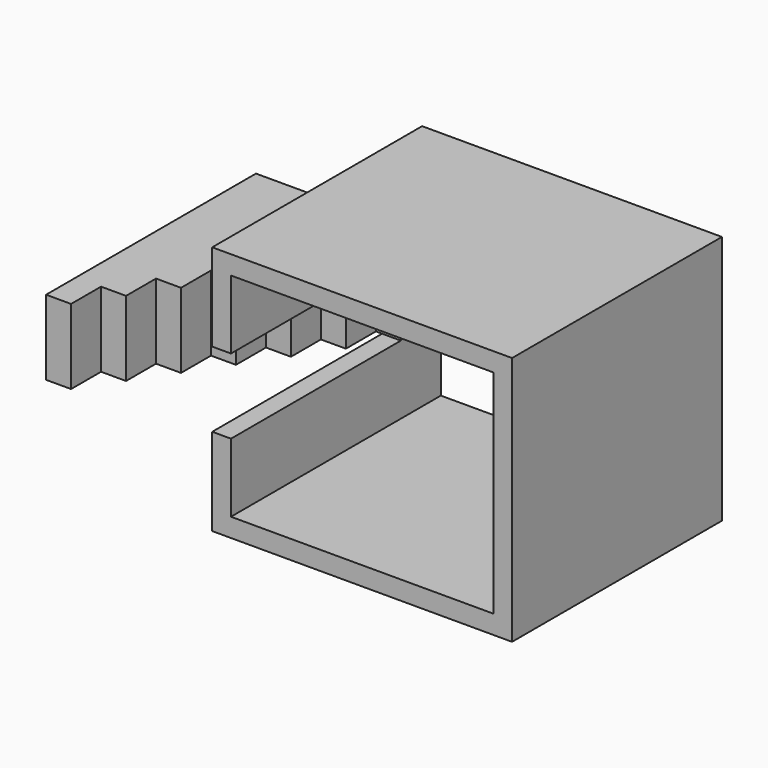
from build123d import *

# Parameters (mm, degrees)
F1_DEPTH = 200
F2_DEPTH = 10
F3_DEPTH = 30
F0_W     = 20
F0_H     = 60
F4_DEPTH = 60
F5_DEPTH = 90
F6_DEPTH = 120
F7_DEPTH = 150
F8_DEPTH = 180
F9_DEPTH = 210


with BuildPart() as f1:
    # F0 (on Front) → F1 (new body)
    with BuildSketch(Plane.XZ):
        Polygon((120, 100), (-120, 100), (-120, 30), (-105, 30), (-105, 85), (105, 85), (105, -85), (-105, -85), (-105, -30), (-120, -30), (-120, -100), (120, -100), align=None)
    extrude(amount=F1_DEPTH)

    # F1_face (on face) → F2 (join, symmetric)
    with BuildSketch(Plane(origin=(8.881579, 0, 0), x_dir=(1, 0, 0), z_dir=(0, 1, 0))):
        Polygon((-128.881579, -100), (111.118421, -100), (111.118421, 100), (-128.881579, 100), (-128.881579, 30), (-113.881579, 30), (-113.881579, 85), (96.118421, 85), (96.118421, -85), (-113.881579, -85), (-113.881579, -30), (-128.881579, -30), align=None)
    extrude(amount=F2_DEPTH, both=True)

    # F0 (on Front) → F3 (join)
    with BuildSketch(Plane.XZ):
        Polygon((-105, 30), (-120, 30), (-125, 30), (-125, -30), (-120, -30), (-105, -30), align=None)
    extrude(amount=F3_DEPTH)

    # F0 (on Front) → F4 (join)
    with BuildSketch(Plane.XZ):
        with Locations((-135, 0)):
            Rectangle(F0_W, F0_H)
    extrude(amount=F4_DEPTH)

    # F0 (on Front) → F5 (join)
    with BuildSketch(Plane.XZ):
        with Locations((-155, 0)):
            Rectangle(F0_W, F0_H)
    extrude(amount=F5_DEPTH)

    # F0 (on Front) → F6 (join)
    with BuildSketch(Plane.XZ):
        with Locations((-175, 0)):
            Rectangle(F0_W, F0_H)
    extrude(amount=F6_DEPTH)

    # F0 (on Front) → F7 (join)
    with BuildSketch(Plane.XZ):
        with Locations((-195, 0)):
            Rectangle(F0_W, F0_H)
    extrude(amount=F7_DEPTH)

    # F0 (on Front) → F8 (join)
    with BuildSketch(Plane.XZ):
        with Locations((-215, 0)):
            Rectangle(F0_W, F0_H)
    extrude(amount=F8_DEPTH)

    # F0 (on Front) → F9 (join)
    with BuildSketch(Plane.XZ):
        with Locations((-235, 0)):
            Rectangle(F0_W, F0_H)
    extrude(amount=F9_DEPTH)


solid = f1.part
